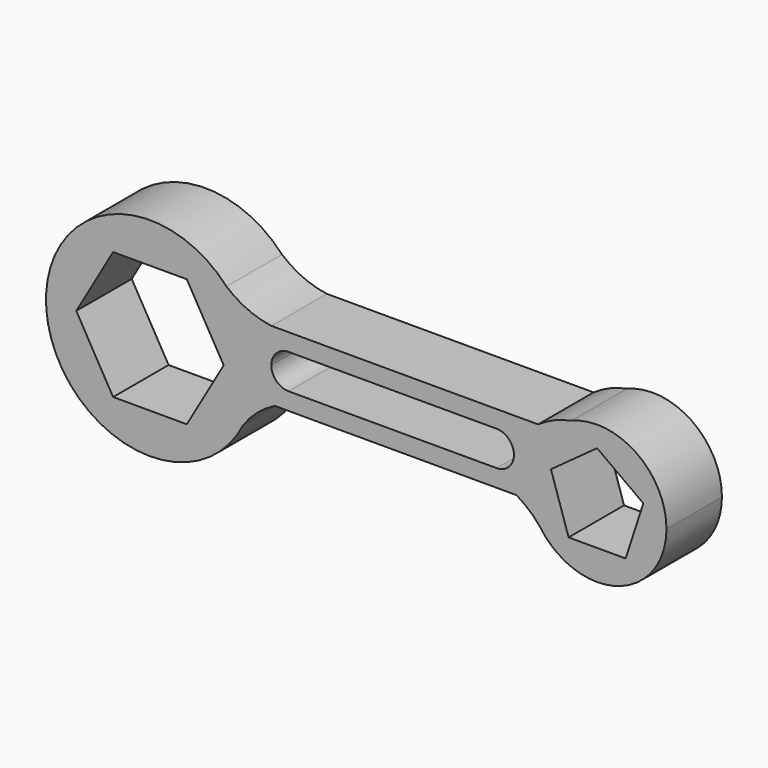
from build123d import *

# Parameters (mm, degrees)
F1_DEPTH = 20


with BuildPart() as f1:
    # F0 (on Front) → F1 (new body)
    with BuildSketch(Plane.XZ):
        with BuildLine():
            ThreePointArc((-34.957032, 12.924122), (-34.57753, 15.656792), (-34.450671, 18.412771))
            ThreePointArc((-34.450671, 18.412771), (-35.401535, 25.905946), (-38.19385, 32.924122))
            ThreePointArc((-38.19385, 32.924122), (-40.105644, 35.943306), (-42.362879, 38.713742))
            ThreePointArc((-42.362879, 38.713742), (-94.154828, 14.210027), (-37.597959, 5.03623))
            ThreePointArc((-37.597959, 5.03623), (-36.00278, 8.888199), (-34.957032, 12.924122))
        make_face()
        Polygon((-43.189435, 18.412771), (-53.820053, 0), (-75.081289, 0), (-85.711908, 18.412771), (-75.081289, 36.825541), (-53.820053, 36.825541), align=None, mode=Mode.SUBTRACT)
        with BuildLine():
            ThreePointArc((-38.19385, 32.924122), (-35.401535, 25.905946), (-34.450671, 18.412771))
            ThreePointArc((-34.450671, 18.412771), (-34.57753, 15.656792), (-34.957032, 12.924122))
            Line((-34.957032, 12.924122), (-28.456261, 12.924122))
            Line((-28.456261, 12.924122), (41.285228, 12.924122))
            Line((41.285228, 12.924122), (45.317201, 12.924122))
            ThreePointArc((45.317201, 12.924122), (45.257623, 23.688193), (50.78631, 32.924122))
            Line((50.78631, 32.924122), (47.52816, 32.924122))
            Line((47.52816, 32.924122), (-29.450671, 32.924122))
            Line((-29.450671, 32.924122), (-38.19385, 32.924122))
        make_face()
        with BuildLine():
            ThreePointArc((-29.450671, 22.924122), (-27.986205, 26.459656), (-24.450671, 27.924122))
            Line((-24.450671, 27.924122), (35.549329, 27.924122))
            ThreePointArc((35.549329, 27.924122), (39.084863, 26.459656), (40.549329, 22.924122))
            ThreePointArc((40.549329, 22.924122), (39.084863, 19.388588), (35.549329, 17.924122))
            Line((35.549329, 17.924122), (-24.450671, 17.924122))
            ThreePointArc((-24.450671, 17.924122), (-27.986205, 19.388588), (-29.450671, 22.924122))
        make_face(mode=Mode.SUBTRACT)
        with BuildLine():
            ThreePointArc((-42.362879, 38.713742), (-40.105644, 35.943306), (-38.19385, 32.924122))
            Line((-38.19385, 32.924122), (-29.450671, 32.924122))
            ThreePointArc((-29.450671, 32.924122), (-36.324963, 34.886277), (-42.362879, 38.713742))
        make_face()
        with BuildLine():
            Line((-28.456261, 12.924122), (-34.957032, 12.924122))
            ThreePointArc((-34.957032, 12.924122), (-36.00278, 8.888199), (-37.597959, 5.03623))
            ThreePointArc((-37.597959, 5.03623), (-33.510468, 9.540365), (-28.456261, 12.924122))
        make_face()
        with BuildLine():
            ThreePointArc((57.122309, 36.982622), (52.111497, 35.458639), (47.52816, 32.924122))
            Line((47.52816, 32.924122), (50.78631, 32.924122))
            ThreePointArc((50.78631, 32.924122), (53.76173, 35.254021), (57.122309, 36.982622))
        make_face()
        with BuildLine():
            Line((45.317201, 12.924122), (41.285228, 12.924122))
            ThreePointArc((41.285228, 12.924122), (44.94063, 10.309101), (48.068737, 7.081835))
            ThreePointArc((48.068737, 7.081835), (46.45561, 9.89119), (45.317201, 12.924122))
        make_face()
        with BuildLine():
            ThreePointArc((57.122309, 36.982622), (53.76173, 35.254021), (50.78631, 32.924122))
            ThreePointArc((50.78631, 32.924122), (45.257623, 23.688193), (45.317201, 12.924122))
            ThreePointArc((45.317201, 12.924122), (46.45561, 9.89119), (48.068737, 7.081835))
            ThreePointArc((48.068737, 7.081835), (70.481789, -0.687122), (84.549329, 18.412771))
            ThreePointArc((84.549329, 18.412771), (75.762259, 34.973876), (57.122309, 36.982622))
        make_face()
        Polygon((77.869642, 22.740803), (72.781735, 7.081835), (56.316922, 7.081835), (51.229015, 22.740803), (64.549329, 32.418577), align=None, mode=Mode.SUBTRACT)
    extrude(amount=F1_DEPTH)


solid = f1.part
